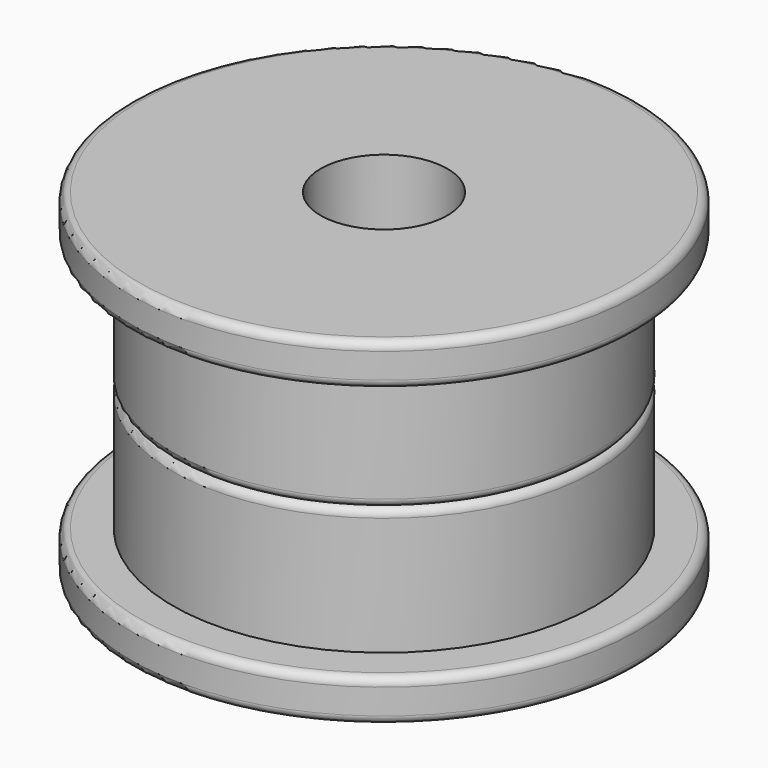
from build123d import *


with BuildPart() as f1:
    # F0 (on Front) → F1 (revolve)
    with BuildSketch(Plane.XZ):
        with BuildLine():
            Line((-4.8, 0), (-1.5, 0))
            Line((-1.5, 0), (-1.5, 4))
            Line((-1.5, 4), (-5.8, 4))
            ThreePointArc((-5.8, 4), (-5.941421, 3.941421), (-6, 3.8))
            Line((-6, 3.8), (-6, 3.2))
            ThreePointArc((-6, 3.2), (-5.941421, 3.058579), (-5.8, 3))
            Line((-5.8, 3), (-5, 3))
            Line((-5, 3), (-5, 0.2))
            ThreePointArc((-5, 0.2), (-4.941421, 0.058579), (-4.8, 0))
        make_face()
        with BuildLine():
            Line((-1.5, -4), (-1.5, 0))
            Line((-1.5, 0), (-4.8, 0))
            ThreePointArc((-4.8, 0), (-4.941421, -0.058579), (-5, -0.2))
            Line((-5, -0.2), (-5, -3))
            Line((-5, -3), (-5.8, -3))
            ThreePointArc((-5.8, -3), (-5.941421, -3.058579), (-6, -3.2))
            Line((-6, -3.2), (-6, -3.8))
            ThreePointArc((-6, -3.8), (-5.941421, -3.941421), (-5.8, -4))
            Line((-5.8, -4), (-1.5, -4))
        make_face()
    revolve(axis=Axis((0, 0, -2), (0, 0, -1)))


solid = f1.part
